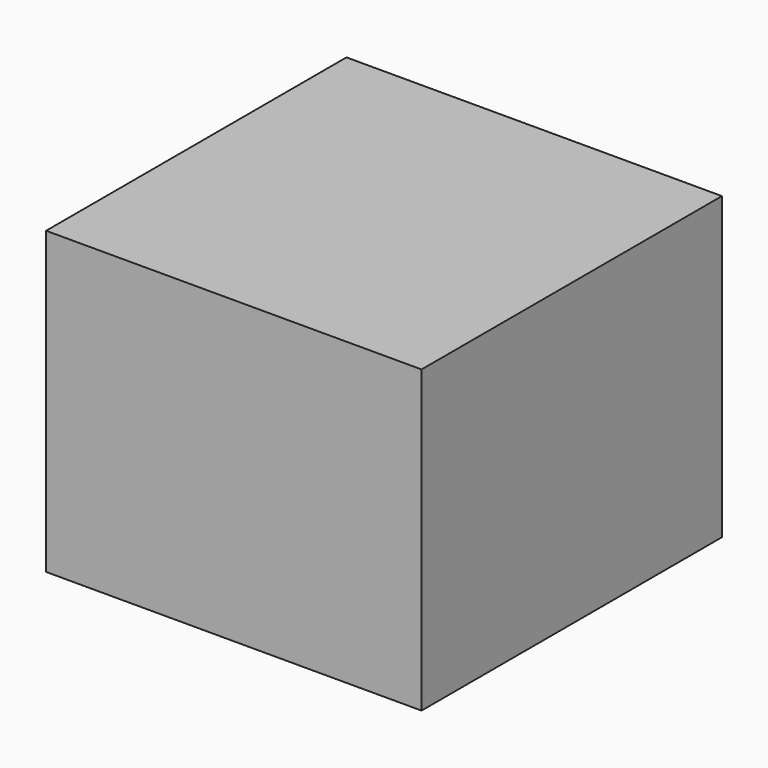
from build123d import *

# Parameters (mm, degrees)
BOX_W     = 1
BOX_H     = 1
BOX_DEPTH = 0.8


with BuildPart() as part:
    # Box → Box (new body)
    with BuildSketch(Plane(origin=(-0.5, -0.5, 0), x_dir=(1, 0, 0), z_dir=(0, 0, 1))):
        with Locations((0.5, 0.5)):
            Rectangle(BOX_W, BOX_H)
    extrude(amount=BOX_DEPTH)


solid = part.part
